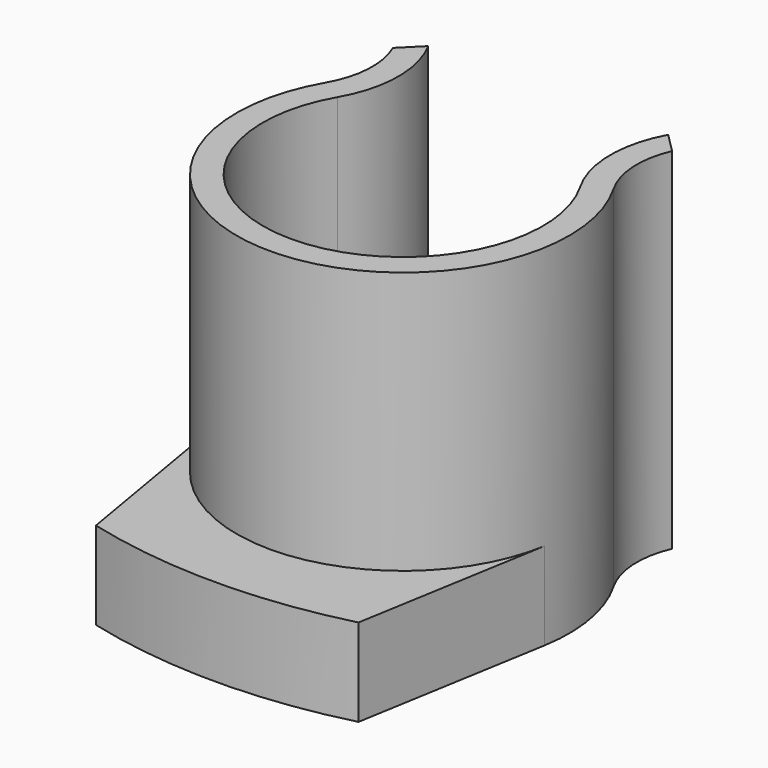
from build123d import *

# Parameters (mm, degrees)
F1_DEPTH = 40
F3_DEPTH = 40
F6_DEPTH = 10


with BuildPart() as f1:
    # F0 (on Top) → F1 (new body)
    with BuildSketch(Plane.XY):
        with BuildLine():
            ThreePointArc((13.856406, 8), (0, -16), (-13.856406, 8))
            Line((-13.856406, 8), (-15.545047, 10.924812))
            ThreePointArc((-15.545047, 10.924812), (0, -19), (15.545047, 10.924812))
            Line((15.545047, 10.924812), (13.856406, 8))
        make_face()
    extrude(amount=F1_DEPTH)

    # F2 (on Top) → F3 (join, through all)
    with BuildSketch(Plane.XY):
        with BuildLine():
            Line((15.949585, 18.5), (13.710013, 20.739573))
            ThreePointArc((13.710013, 20.739573), (12.115595, 14.350623), (13.856406, 8))
            Line((13.856406, 8), (16.454483, 9.5))
            ThreePointArc((16.454483, 9.5), (15.130436, 13.939884), (15.949585, 18.5))
        make_face()
    extrude(amount=F3_DEPTH)

    # F4: F1 across plane


with BuildPart() as f1_1:
    add(f1.part)
    add(f1.part.mirror(Plane.YZ))

    # F5 (on face) → F6 (join)
    with BuildSketch(Plane(origin=(0, 0, 0), x_dir=(1, 0, 0), z_dir=(0, 0, -1))):
        with BuildLine():
            ThreePointArc((-18.730344, 3.189705), (0, 19), (18.730344, 3.189705))
            Line((18.730344, 3.189705), (15, 25.09475))
            ThreePointArc((15, 25.09475), (0, 27), (-15, 25.09475))
            Line((-15, 25.09475), (-18.730344, 3.189705))
        make_face()
    extrude(amount=-F6_DEPTH)


solid = f1_1.part
